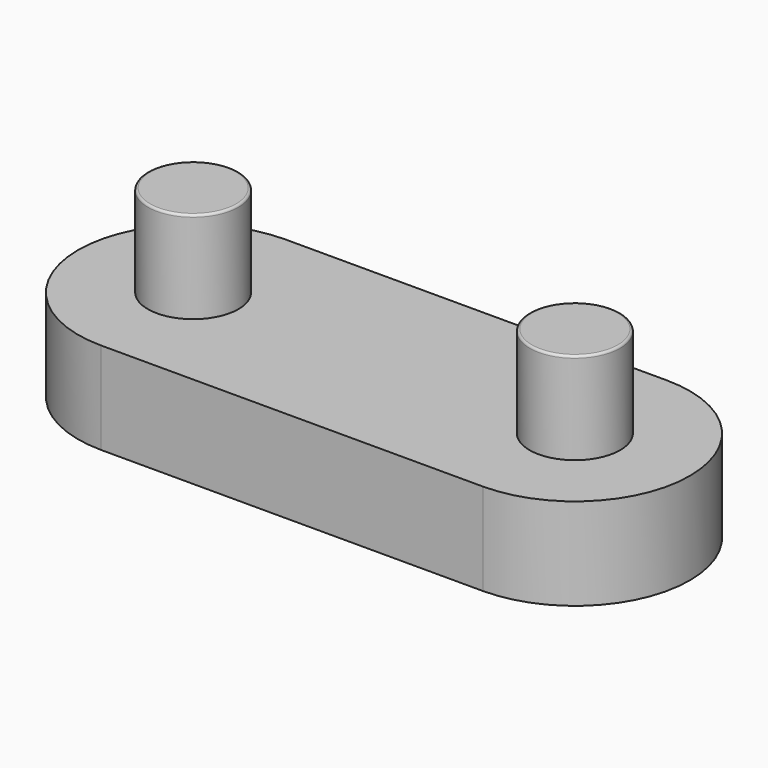
from build123d import *

# Parameters (mm, degrees)
F0_W     = 21.082
F0_H     = 12.7
F1_DEPTH = 5.08
F2_R     = 2.5019
F3_DEPTH = 5.08
F4_R     = 0.127


with BuildPart() as f1:
    # F0 (on Top) → F1 (new body)
    with BuildSketch(Plane.XY):
        Rectangle(F0_W, F0_H)
        with BuildLine():
            Line((-10.541, -6.35), (-10.541, 6.35))
            ThreePointArc((-10.541, 6.35), (-16.891, 0), (-10.541, -6.35))
        make_face()
        with BuildLine():
            ThreePointArc((10.541, -6.35), (16.891, 0), (10.541, 6.35))
            Line((10.541, 6.35), (10.541, -6.35))
        make_face()
    extrude(amount=F1_DEPTH)

    # F2 (on face) → F3 (join)
    with BuildSketch(Plane.XY.offset(5.08)):
        with Locations((-10.541, 0)):
            Circle(F2_R)
        with Locations((10.541, 0)):
            Circle(F2_R)
    extrude(amount=F3_DEPTH)

    # F4
    f4_edges = [f1.edges().sort_by_distance(p)[0] for p in [
        (-13.0429, 0, 10.16),
        (8.0391, 0, 10.16),
    ]]
    fillet(f4_edges, radius=F4_R)


solid = f1.part
